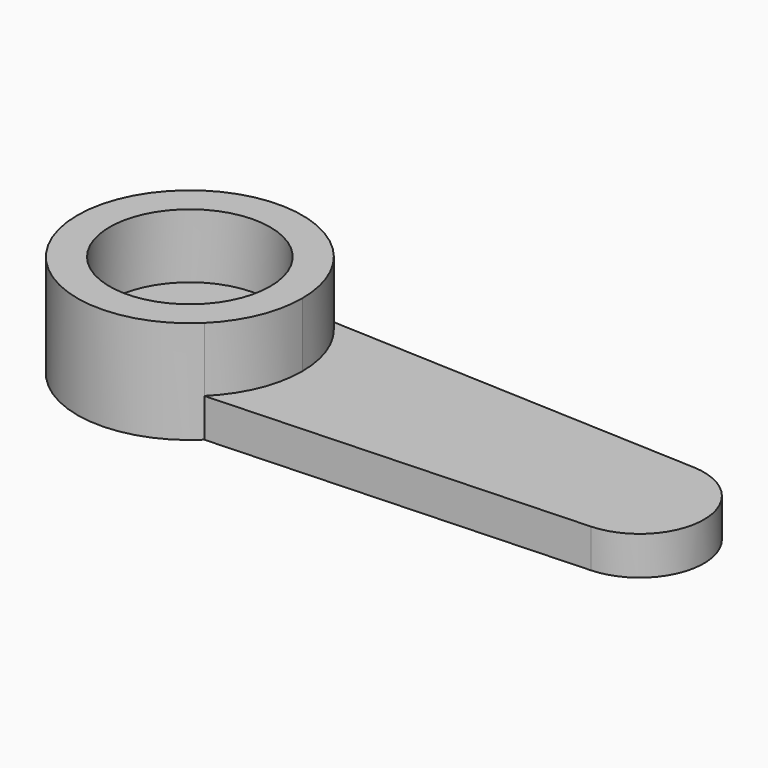
from build123d import *

# Parameters (mm, degrees)
F0_R     = 1.25
F1_DEPTH = 1.2
F2_R     = 2.5
F3_DEPTH = 2


with BuildPart() as f1:
    # F0 (on Top) → F1 (new body)
    with BuildSketch(Plane.XY):
        with BuildLine():
            Line((14.086174, 1.998143), (2.44949, 2.5))
            ThreePointArc((2.44949, 2.5), (-3.5, 0), (2.44949, -2.5))
            Line((2.44949, -2.5), (14.086174, -1.998143))
            ThreePointArc((14.086174, -1.998143), (16, 0), (14.086174, 1.998143))
        make_face()
        Circle(F0_R, mode=Mode.SUBTRACT)
    extrude(amount=F1_DEPTH)

    # F2 (on face) → F3 (join)
    with BuildSketch(Plane.XY.offset(1.2)):
        with BuildLine():
            ThreePointArc((2.44949, -2.5), (3.226702, -1.355874), (3.5, 0))
            ThreePointArc((3.5, 0), (3.226702, 1.355874), (2.44949, 2.5))
            ThreePointArc((2.44949, 2.5), (-3.5, 0), (2.44949, -2.5))
        make_face()
        Circle(F2_R, mode=Mode.SUBTRACT)
    extrude(amount=F3_DEPTH)


solid = f1.part
